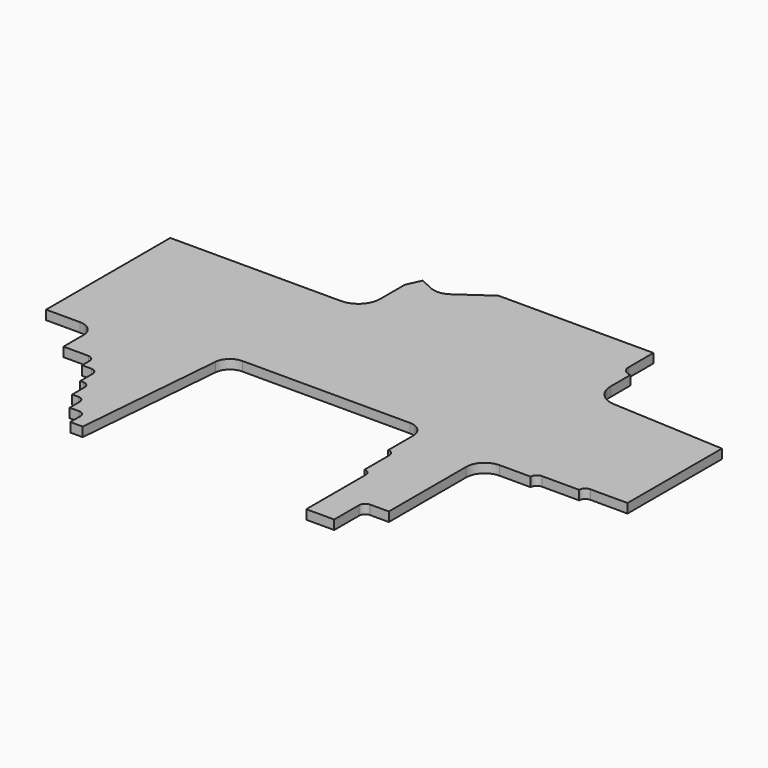
from build123d import *

# Parameters (mm, degrees)
F1_DEPTH = 3
F3_DEPTH = 0.3


with BuildPart() as f1:
    # F0 (on Top) → F1 (new body)
    with BuildSketch(Plane.XY):
        with BuildLine():
            Line((-9, 0), (0, 0))
            Line((0, 0), (0, 10))
            ThreePointArc((0, 10), (0.585786, 11.414214), (2, 12))
            Line((2, 12), (8, 12))
            Line((8, 12), (8, 43.09412))
            ThreePointArc((8, 43.09412), (9.757359, 47.336761), (14, 49.09412))
            Line((14, 49.09412), (24, 49.09412))
            ThreePointArc((24, 49.09412), (24.585786, 50.508334), (26, 51.09412))
            Line((26, 51.09412), (38, 51.09412))
            ThreePointArc((38, 51.09412), (38.585786, 52.508334), (40, 53.09412))
            Line((40, 53.09412), (52, 53.09412))
            Line((52, 53.09412), (52, 91.09412))
            Line((52, 91.09412), (15.633648, 93))
            ThreePointArc((15.633648, 93), (10.922379, 95.171925), (9, 99.990407))
            Line((9, 99.990407), (9, 108))
            ThreePointArc((9, 108), (6.87868, 108.87868), (6, 111))
            Line((6, 111), (6, 121))
            Line((6, 121), (-43.90046, 121))
            Line((-43.90046, 121), (-53.725736, 114.110591))
            ThreePointArc((-53.725736, 114.110591), (-56.643558, 113.046408), (-59.702558, 113.583709))
            Line((-59.702558, 113.583709), (-63.889902, 115.532934))
            Line((-63.889902, 115.532934), (-66, 111))
            Line((-66, 111), (-66, 101))
            ThreePointArc((-66, 101), (-68.050253, 96.050253), (-73, 94))
            Line((-73, 94), (-128, 94))
            Line((-128, 94), (-128, 44))
            Line((-128, 44), (-117, 44))
            ThreePointArc((-117, 44), (-113.464466, 42.535534), (-112, 39))
            Line((-112, 39), (-112, 31))
            Line((-112, 31), (-104, 31))
            ThreePointArc((-104, 31), (-102.585786, 30.414214), (-102, 29))
            Line((-102, 29), (-102, 26))
            Line((-102, 26), (-99, 26))
            ThreePointArc((-99, 26), (-97.585786, 25.414214), (-97, 24))
            Line((-97, 24), (-97, 19))
            Line((-97, 19), (-96, 19))
            ThreePointArc((-96, 19), (-94.585786, 18.414214), (-94, 17))
            Line((-94, 17), (-94, 12))
            Line((-94, 12), (-92, 12))
            ThreePointArc((-92, 12), (-90.585786, 11.414214), (-90, 10))
            Line((-90, 10), (-90, 6))
            Line((-90, 6), (-87, 6))
            ThreePointArc((-87, 6), (-85.585786, 5.414214), (-85, 4))
            Line((-85, 4), (-85, 0))
            Line((-85, 0), (-81, 0))
            Line((-81, 0), (-76.977103, 48.414041))
            ThreePointArc((-76.977103, 48.414041), (-75.380261, 51.679008), (-71.994276, 53))
            Line((-71.994276, 53), (-18, 53))
            ThreePointArc((-18, 53), (-14.464466, 51.535534), (-13, 48))
            Line((-13, 48), (-13, 38))
            ThreePointArc((-13, 38), (-11.585786, 37.414214), (-11, 36))
            Line((-11, 36), (-11, 26))
            ThreePointArc((-11, 26), (-9.585786, 25.414214), (-9, 24))
            Line((-9, 24), (-9, 0))
        make_face()
    extrude(amount=F1_DEPTH)

    # F2 (on face) → F3 (join)
    with BuildSketch(Plane(origin=(0, 0, 0), x_dir=(1, 0, 0), z_dir=(0, 0, -1))):
        Polygon((-61.406273, -110.51616), (-60.140214, -113.235921), (-59.686921, -113.024911), (-60.952979, -110.305151), align=None)
        Polygon((-53.233984, -113.844734), (-51.511632, -111.388415), (-51.921019, -111.101357), (-53.643371, -113.557676), align=None)
        Polygon((-43.818095, -120.447084), (-43.408708, -120.734143), (-41.686356, -118.277824), (-42.095742, -117.990765), align=None)
    extrude(amount=F3_DEPTH)


solid = f1.part
